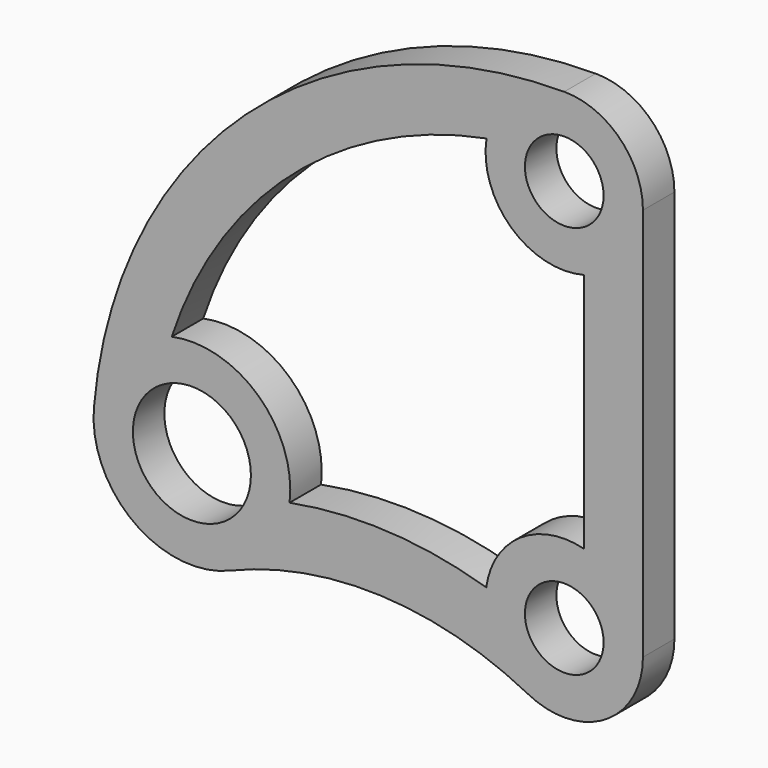
from build123d import *

# Parameters (mm, degrees)
F0_R     = 381
F0_R_2   = 254
F1_DEPTH = 254


with BuildPart() as f1:
    # F0 (on Front) → F1 (new body)
    with BuildSketch(Plane.XZ):
        with BuildLine():
            ThreePointArc((-2158.973337, -375.590953), (-1187.199374, -200.608411), (-232.278772, -451.78598))
            ThreePointArc((-232.278772, -451.78598), (264.63785, -433.625193), (508, 0))
            Line((508, 0), (508, 2540))
            ThreePointArc((508, 2540), (359.210245, 2899.210245), (0, 3048))
            ThreePointArc((0, 3048), (-2059.198953, 2247.221323), (-3036.40144, 265.650704))
            ThreePointArc((-3036.40144, 265.650704), (-2778.495175, -302.374253), (-2158.973337, -375.590953))
        make_face()
        with Locations((-2403.817806, 210.306807)):
            Circle(F0_R, mode=Mode.SUBTRACT)
        Circle(F0_R_2, mode=Mode.SUBTRACT)
        with BuildLine():
            ThreePointArc((127, 491.868885), (-283.700841, 421.399849), (-503.510599, 67.387511))
            ThreePointArc((-503.510599, 67.387511), (-1134.231421, 178.324417), (-1773.214755, 135.709277))
            ThreePointArc((-1773.214755, 135.709277), (-1975.144838, 678.777176), (-2533.95972, 831.827589))
            ThreePointArc((-2533.95972, 831.827589), (-1761.457001, 2002.537948), (-501.76051, 2619.375))
            ThreePointArc((-501.76051, 2619.375), (-341.601016, 2164.004327), (127, 2048.131115))
            Line((127, 2048.131115), (127, 491.868885))
        make_face(mode=Mode.SUBTRACT)
        with Locations((0, 2540)):
            Circle(F0_R_2, mode=Mode.SUBTRACT)
    extrude(amount=F1_DEPTH)


solid = f1.part
